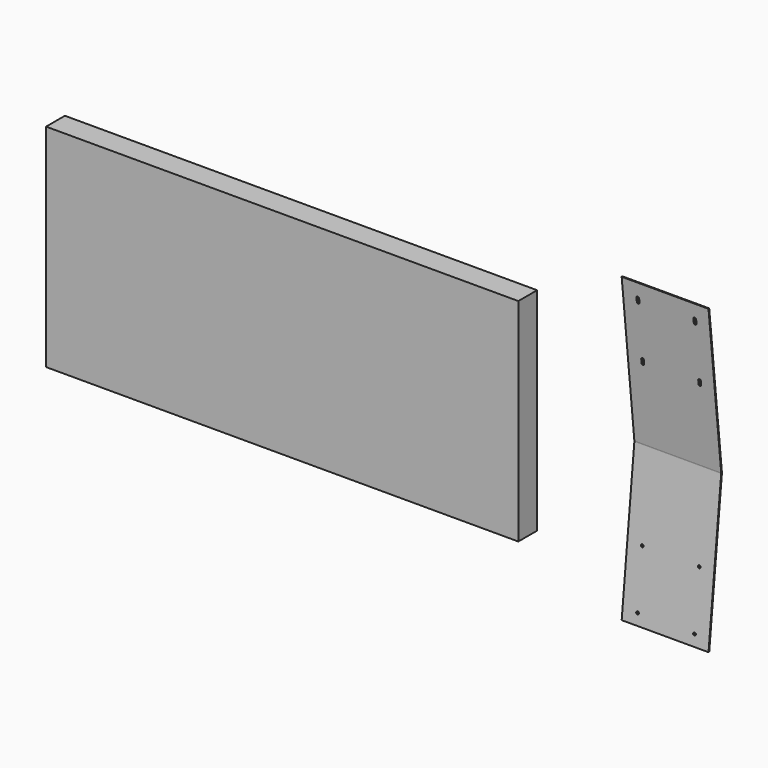
from build123d import *

# Parameters (mm, degrees)
F1_DEPTH      = 76.2
F1_DEPTH_BACK = 76.2
F2_R          = 2.38125
F3_DEPTH      = 29.2492825166
F5_DEPTH      = 29.2492825166
F6_W          = 828.675
F6_H          = 371.475
F7_DEPTH      = 41.275
F8_R          = 3.175
F9_DEPTH      = 12.7


with BuildPart() as f1:
    # F0 (on Right) → F1 (new body, two sides)
    with BuildSketch(Plane.YZ) as f1_sk:
        with BuildLine():
            ThreePointArc((-0.0348817698, 0.3318778709), (-0.0174887876, 0), (-0.0348817698, -0.3318778709))
            Line((-0.0348817698, -0.3318778709), (-27.8777411535, -265.2389894947))
            Line((-27.8777411535, -265.2389894947), (-26.3620897849, -265.3982908727))
            Line((-26.3620897849, -265.3982908727), (1.4975128482, -0.3318778709))
            ThreePointArc((1.4975128482, -0.3318778709), (1.5149058304, 0), (1.4975128482, 0.3318778709))
            Line((1.4975128482, 0.3318778709), (-26.3620897849, 265.3982908727))
            Line((-26.3620897849, 265.3982908727), (-27.8777411535, 265.2389894947))
            Line((-27.8777411535, 265.2389894947), (-0.0348817698, 0.3318778709))
        make_face()
    extrude(amount=F1_DEPTH)
    extrude(f1_sk.sketch, amount=-F1_DEPTH_BACK)

    # F2 (on face) → F3 (cut, through all)
    with BuildSketch(Plane(origin=(0, 0, 0), x_dir=(1, 0, 0), z_dir=(0, -0.9945218954, 0.1045284633))):
        with Locations((-50, -147.65)):
            Circle(F2_R)
        with Locations((50, -147.65)):
            Circle(F2_R)
        with Locations((50, -247.65)):
            Circle(F2_R)
        with Locations((-50, -247.65)):
            Circle(F2_R)
    extrude(amount=-F3_DEPTH, mode=Mode.SUBTRACT)

    # F4 (on face) → F5 (cut, through all)
    with BuildSketch(Plane(origin=(0, 0, 0), x_dir=(1, 0, 0), z_dir=(0, -0.9945218954, -0.1045284633))):
        with BuildLine():
            ThreePointArc((-47.61875, 241.3), (-50, 243.68125), (-52.38125, 241.3))
            Line((-52.38125, 241.3), (-52.38125, 234.3735230446))
            ThreePointArc((-52.38125, 234.3735230446), (-50, 231.9922730446), (-47.61875, 234.3735230446))
            Line((-47.61875, 234.3735230446), (-47.61875, 241.3))
        make_face()
        with BuildLine():
            ThreePointArc((52.38125, 241.3), (50, 243.68125), (47.61875, 241.3))
            Line((47.61875, 241.3), (47.61875, 234.3735230446))
            ThreePointArc((47.61875, 234.3735230446), (50, 231.9922730446), (52.38125, 234.3735230446))
            Line((52.38125, 234.3735230446), (52.38125, 241.3))
        make_face()
        with BuildLine():
            Line((52.38125, 134.95), (52.38125, 141.3))
            ThreePointArc((52.38125, 141.3), (50, 143.68125), (47.61875, 141.3))
            Line((47.61875, 141.3), (47.61875, 134.95))
            ThreePointArc((47.61875, 134.95), (50, 132.56875), (52.38125, 134.95))
        make_face()
        with BuildLine():
            ThreePointArc((-47.61875, 141.3), (-50, 143.68125), (-52.38125, 141.3))
            Line((-52.38125, 141.3), (-52.38125, 134.95))
            ThreePointArc((-52.38125, 134.95), (-50, 132.56875), (-47.61875, 134.95))
            Line((-47.61875, 134.95), (-47.61875, 141.3))
        make_face()
    extrude(amount=-F5_DEPTH, mode=Mode.SUBTRACT)


with BuildPart() as f7:
    # F6 (on Front) → F7 (new body)
    with BuildSketch(Plane.XZ):
        with Locations((-661.1656835318, -8.0659929991)):
            Rectangle(F6_W, F6_H)
    extrude(amount=F7_DEPTH)

    # F8 (on face) → F9 (cut)
    with BuildSketch(Plane(origin=(0, 0, 0), x_dir=(-1, 0, 0), z_dir=(0, 1, 0))):
        with Locations((611.1656835318, 30.0215070009)):
            Circle(F8_R)
        with Locations((711.1656835318, 30.0215070009)):
            Circle(F8_R)
        with Locations((611.1656835318, -69.9784929991)):
            Circle(F8_R)
        with Locations((711.1656835318, -69.9784929991)):
            Circle(F8_R)
    extrude(amount=-F9_DEPTH, mode=Mode.SUBTRACT)


solid = Compound([f1.part, f7.part])
